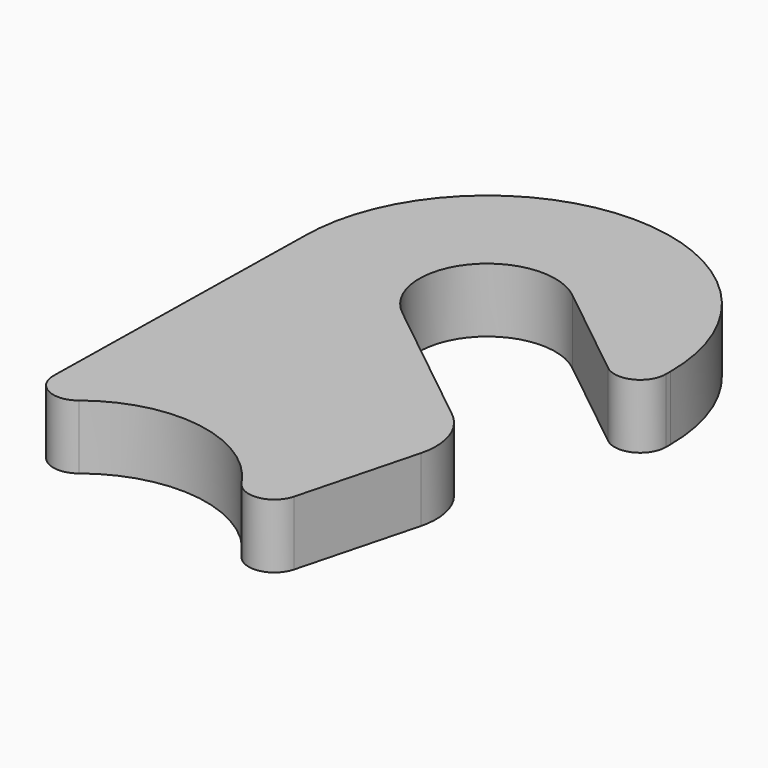
from build123d import *

# Parameters (mm, degrees)
F1_DEPTH = 6.35


with BuildPart() as f1:
    # F0 (on Top) → F1 (new body)
    with BuildSketch(Plane.XY):
        with BuildLine():
            ThreePointArc((-18.731252, -17.982043), (-8.866157, -15.404018), (-0.284833, -20.911031))
            ThreePointArc((-0.284833, -20.911031), (2.246411, -22.009452), (4.285943, -20.150948))
            Line((4.285943, -20.150948), (7.392956, -8.357487))
            ThreePointArc((7.392956, -8.357487), (7.28039, -4.743075), (5.212962, -1.776192))
            Line((5.212962, -1.776192), (-8.396228, 9.082717))
            ThreePointArc((-8.396228, 9.082717), (-9.459502, 18.542219), (0, 19.605493))
            Line((0, 19.605493), (9.795078, 11.789902))
            ThreePointArc((9.795078, 11.789902), (12.481031, 11.486723), (13.919272, 13.775331))
            Line((13.919272, 13.775331), (13.919272, 14.344105))
            ThreePointArc((13.919272, 14.344105), (-4.198114, 32.46149), (-22.315499, 14.344105))
            Line((-22.315499, 14.344105), (-22.845562, -15.94463))
            ThreePointArc((-22.845562, -15.94463), (-21.433128, -18.265271), (-18.731252, -17.982043))
        make_face()
    extrude(amount=F1_DEPTH)


solid = f1.part
